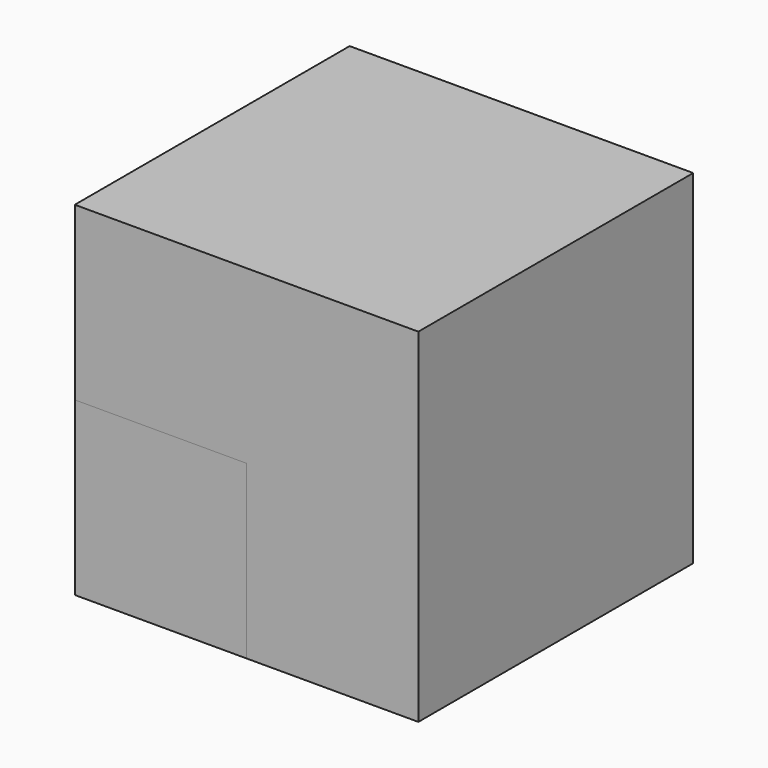
from build123d import *

# Parameters (mm, degrees)
BOX_W        = 10
BOX_H        = 10
BOX_DEPTH    = 10
BOX001_W     = 5
BOX001_H     = 5
BOX001_DEPTH = 5


with BuildPart() as cube_ext:
    # Box → Box (new body)
    with BuildSketch(Plane.XY):
        with Locations((5, 5)):
            Rectangle(BOX_W, BOX_H)
    extrude(amount=BOX_DEPTH)


with BuildPart() as cube_int:
    # Box001 → Box001 (new body)
    with BuildSketch(Plane.XY):
        with Locations((2.5, 2.5)):
            Rectangle(BOX001_W, BOX001_H)
    extrude(amount=BOX001_DEPTH)


solid = Compound([cube_ext.part, cube_int.part])
